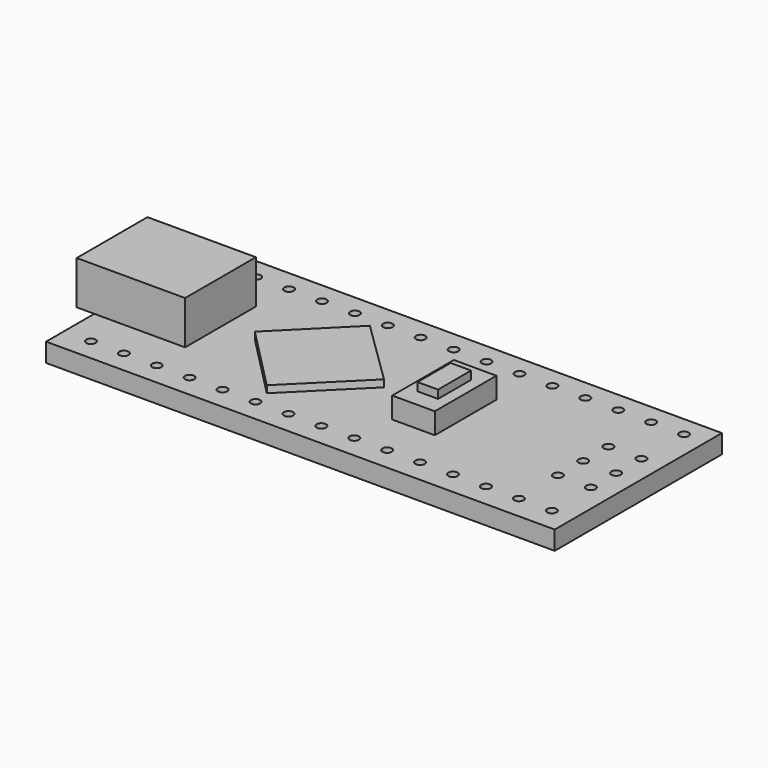
from build123d import *

# Parameters (mm, degrees)
F0_R     = 0.4
F0_W     = 3.627236
F0_H     = 6.562536
F0_W_2   = 7.74
F0_H_2   = 7.54
F0_W_3   = 1.741074
F0_H_3   = 3.515658
F1_DEPTH = 0.8
F2_W     = 1.5
F2_H     = 7.54
F2_W_2   = 7.74
F3_DEPTH = 3.7
F4_DEPTH = 0.6
F2_W_3   = 3.627236
F2_H_2   = 6.562536
F2_W_4   = 1.741074
F2_H_3   = 3.515658
F5_DEPTH = 1.8
F6_DEPTH = 2.5
F7_W     = 3.138918
F7_H     = 1.686543
F7_W_2   = 7.430458
F7_H_2   = 3.743672
F7_W_3   = 2.755912
F7_H_3   = 4.345508
F7_W_4   = 2.256349
F7_H_4   = 1.289181
F8_DEPTH = 1.5


with BuildPart() as f1:
    # F0 (on Top) → F1 (new body, symmetric)
    with BuildSketch(Plane.XY):
        Polygon((21.675, -8.905), (21.675, 8.905), (-21.675, 8.905), (-21.675, 3.77), (-13.935, 3.77), (-13.935, -3.77), (-21.675, -3.77), (-21.675, -8.905), align=None)
        with Locations((-19.378522, -6.999998)):
            Circle(F0_R, mode=Mode.SUBTRACT)
        with Locations((-16.578532, -6.992826)):
            Circle(F0_R, mode=Mode.SUBTRACT)
        with Locations((-13.778541, -6.985653)):
            Circle(F0_R, mode=Mode.SUBTRACT)
        with Locations((-10.97855, -6.978481)):
            Circle(F0_R, mode=Mode.SUBTRACT)
        with Locations((-8.178559, -6.971308)):
            Circle(F0_R, mode=Mode.SUBTRACT)
        with Locations((-5.378568, -6.964136)):
            Circle(F0_R, mode=Mode.SUBTRACT)
        with Locations((-2.578578, -6.956963)):
            Circle(F0_R, mode=Mode.SUBTRACT)
        with Locations((0.221413, -6.949791)):
            Circle(F0_R, mode=Mode.SUBTRACT)
        with Locations((3.021404, -6.942618)):
            Circle(F0_R, mode=Mode.SUBTRACT)
        with Locations((5.821395, -6.935446)):
            Circle(F0_R, mode=Mode.SUBTRACT)
        with Locations((8.621386, -6.928273)):
            Circle(F0_R, mode=Mode.SUBTRACT)
        with Locations((11.421377, -6.921101)):
            Circle(F0_R, mode=Mode.SUBTRACT)
        with Locations((14.221367, -6.913928)):
            Circle(F0_R, mode=Mode.SUBTRACT)
        with Locations((17.021358, -6.906755)):
            Circle(F0_R, mode=Mode.SUBTRACT)
        with Locations((19.821349, -6.899583)):
            Circle(F0_R, mode=Mode.SUBTRACT)
        Polygon((-0.115967, -0.994175), (-5.560689, -6.438898), (-11.005411, -0.994175), (-5.560689, 4.450547), align=None, mode=Mode.SUBTRACT)
        with Locations((16.957284, -2.671687)):
            Circle(F0_R, mode=Mode.SUBTRACT)
        with Locations((19.757274, -2.664514)):
            Circle(F0_R, mode=Mode.SUBTRACT)
        with Locations((16.978642, -0.005869)):
            Circle(F0_R, mode=Mode.SUBTRACT)
        with Locations((5.141591, 0)):
            Rectangle(F0_W, F0_H, mode=Mode.SUBTRACT)
        with Locations((19.778633, 0.001303)):
            Circle(F0_R, mode=Mode.SUBTRACT)
        with Locations((17, 2.659948)):
            Circle(F0_R, mode=Mode.SUBTRACT)
        with Locations((19.799991, 2.667121)):
            Circle(F0_R, mode=Mode.SUBTRACT)
        with Locations((-19.378522, 7.092626)):
            Circle(F0_R, mode=Mode.SUBTRACT)
        with Locations((-16.578532, 7.099799)):
            Circle(F0_R, mode=Mode.SUBTRACT)
        with Locations((-13.778541, 7.106971)):
            Circle(F0_R, mode=Mode.SUBTRACT)
        with Locations((-10.97855, 7.114144)):
            Circle(F0_R, mode=Mode.SUBTRACT)
        with Locations((-8.178559, 7.121316)):
            Circle(F0_R, mode=Mode.SUBTRACT)
        with Locations((-5.378568, 7.128489)):
            Circle(F0_R, mode=Mode.SUBTRACT)
        with Locations((-2.578578, 7.135661)):
            Circle(F0_R, mode=Mode.SUBTRACT)
        with Locations((0.221413, 7.142834)):
            Circle(F0_R, mode=Mode.SUBTRACT)
        with Locations((3.021404, 7.150007)):
            Circle(F0_R, mode=Mode.SUBTRACT)
        with Locations((5.821395, 7.157179)):
            Circle(F0_R, mode=Mode.SUBTRACT)
        with Locations((8.621386, 7.164352)):
            Circle(F0_R, mode=Mode.SUBTRACT)
        with Locations((11.421377, 7.171524)):
            Circle(F0_R, mode=Mode.SUBTRACT)
        with Locations((14.221367, 7.178697)):
            Circle(F0_R, mode=Mode.SUBTRACT)
        with Locations((17.021358, 7.185869)):
            Circle(F0_R, mode=Mode.SUBTRACT)
        with Locations((19.821349, 7.193042)):
            Circle(F0_R, mode=Mode.SUBTRACT)
        with Locations((-17.805, 0)):
            Rectangle(F0_W_2, F0_H_2)
        Polygon((-11.005411, -0.994175), (-5.560689, -6.438898), (-0.115967, -0.994175), (-5.560689, 4.450547), align=None)
        with Locations((5.141591, 0)):
            Rectangle(F0_W, F0_H)
        with Locations((5.141591, 0)):
            Rectangle(F0_W_3, F0_H_3, mode=Mode.SUBTRACT)
        with Locations((5.141591, 0)):
            Rectangle(F0_W_3, F0_H_3)
    extrude(amount=F1_DEPTH, both=True)

    # F2 (on face) → F3 (join)
    with BuildSketch(Plane.XY.offset(0.8)):
        with Locations((-22.425, 0)):
            Rectangle(F2_W, F2_H)
        with Locations((-17.805, 0)):
            Rectangle(F2_W_2, F2_H)
    extrude(amount=F3_DEPTH)

    # F2 (on face) → F4 (join)
    with BuildSketch(Plane.XY.offset(0.8)):
        Polygon((-5.560689, 5.444722), (-11.005411, 0), (-5.560689, -5.538898), (0, 0), align=None)
    extrude(amount=F4_DEPTH)

    # F2 (on face) → F5 (join)
    with BuildSketch(Plane.XY.offset(0.8)):
        with Locations((5.141591, 0)):
            Rectangle(F2_W_3, F2_H_2)
        with Locations((5.141591, 0)):
            Rectangle(F2_W_4, F2_H_3, mode=Mode.SUBTRACT)
    extrude(amount=F5_DEPTH)

    # F2 (on face) → F6 (join)
    with BuildSketch(Plane.XY.offset(0.8)):
        with Locations((5.141591, 0)):
            Rectangle(F2_W_4, F2_H_3)
    extrude(amount=F6_DEPTH)

    # F7 (on face) → F8 (join)
    with BuildSketch(Plane(origin=(0, 0, -0.8), x_dir=(1, 0, 0), z_dir=(0, 0, -1))):
        with Locations((-19.302629, -5.330686)):
            Rectangle(F7_W, F7_H)
        with Locations((-12.91917, 0)):
            Rectangle(F7_W_2, F7_H_2)
        with Locations((12.990596, 3.507671)):
            Rectangle(F7_W_3, F7_H_3)
        with Locations((13.02365, -1.36955)):
            Rectangle(F7_W_4, F7_H_4)
    extrude(amount=F8_DEPTH)


solid = f1.part
